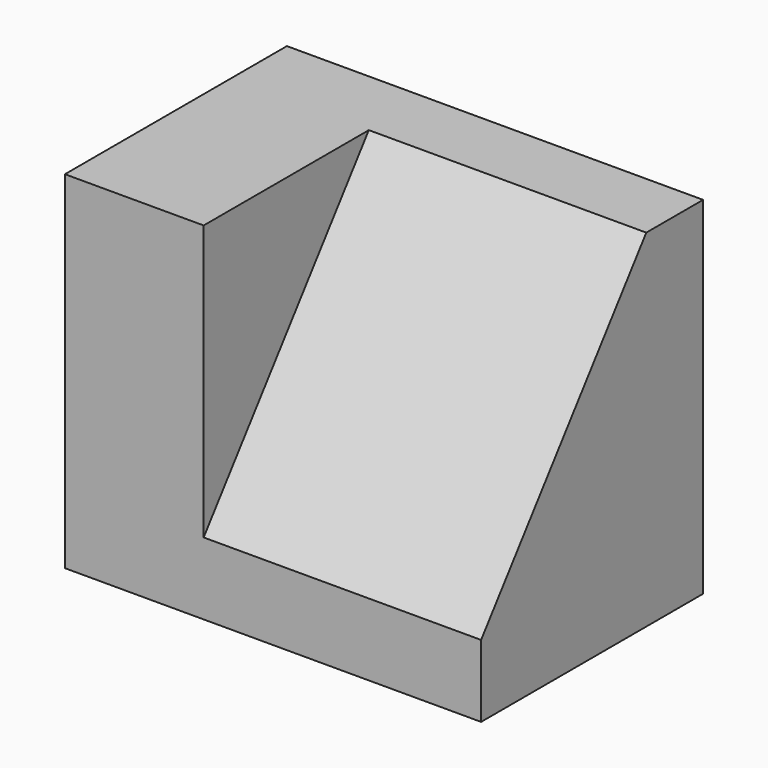
from build123d import *

# Parameters (mm, degrees)
F0_W     = 38.1
F0_H     = 31.75
F1_DEPTH = 25.4
F4_DEPTH = 25.4


with BuildPart() as f1:
    # F0 (on Front) → F1 (new body)
    with BuildSketch(Plane.XZ):
        with Locations((-19.05, 15.875)):
            Rectangle(F0_W, F0_H)
    extrude(amount=F1_DEPTH)

    # F3 (on face) → F4 (cut)
    with BuildSketch(Plane.YZ):
        Polygon((-25.4, 6.6063252952), (-6.5002616409, 31.75), (-25.4, 31.75), align=None)
    extrude(amount=-F4_DEPTH, mode=Mode.SUBTRACT)


solid = f1.part
